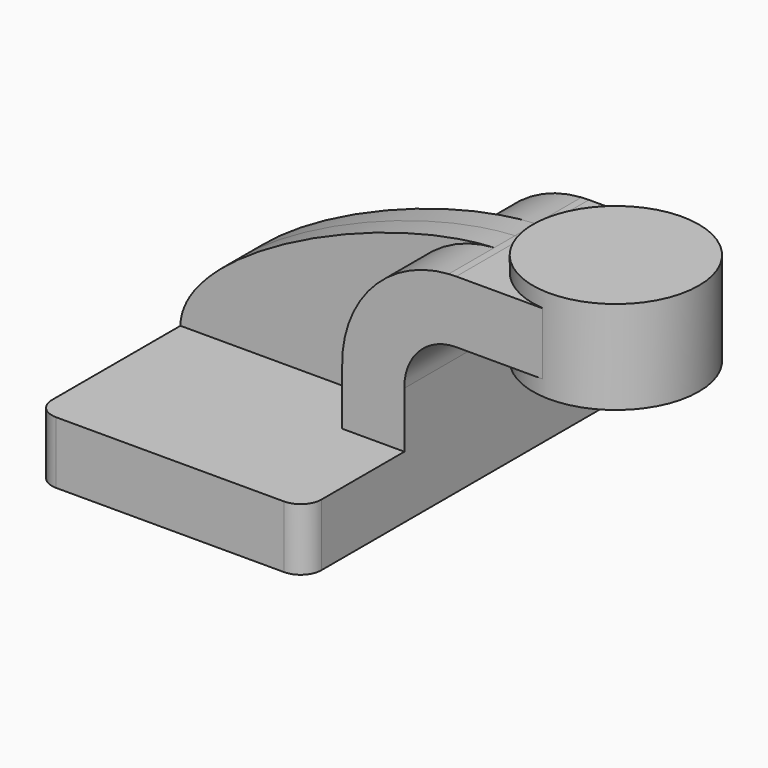
from build123d import *

# Parameters (mm, degrees)
F1_DEPTH = 63.5
F0_W     = 23.213864
F0_H     = 19.05
F2_DEPTH = 25.4
F3_DEPTH = 7.9375
F0_W_2   = 25.4
F0_H_2   = 28.575
F5_R     = 6.35


with BuildPart() as f1:
    # F0 (on Front) → F1 (new body, symmetric)
    with BuildSketch(Plane.XZ):
        Polygon((-41.275, -9.525), (41.275, -9.525), (41.275, 9.525), (22.225, 9.525), (-41.275, 9.525), align=None)
    extrude(amount=F1_DEPTH, both=True)

    # F0 (on Front) → F2 (join, symmetric)
    with BuildSketch(Plane.XZ):
        with BuildLine():
            Line((22.225, 9.525), (41.275, 9.525))
            Line((41.275, 9.525), (41.275, 26.632201))
            ThreePointArc((41.275, 26.632201), (45.791052, 38.09465), (57.145734, 42.8752))
            Line((57.145734, 42.8752), (60.325, 42.8752))
            Line((60.325, 42.8752), (60.325, 61.9252))
            Line((60.325, 61.9252), (57.145734, 61.9252))
            add(Edge.make_bspline(
                [(54.854475, 61.84996), (55.629553, 61.887449), (56.393583, 61.912637), (57.145734, 61.9252)],
                knots=[109.150564, 109.150564, 109.150564, 109.150564, 111.500771, 111.500771, 111.500771, 111.500771], degree=3))
            ThreePointArc((54.854475, 61.84996), (31.467038, 50.672129), (22.225, 26.454349))
            Line((22.225, 26.454349), (22.225, 9.525))
        make_face()
        with Locations((71.931932, 52.4002)):
            Rectangle(F0_W, F0_H)
    extrude(amount=F2_DEPTH, both=True)

    # F0 (on Front) → F3 (join, symmetric)
    with BuildSketch(Plane.XZ):
        with BuildLine():
            add(Edge.make_bspline(
                [(-41.275, 9.525), (-40.968024, 31.835338), (18.857574, 60.108855), (54.854475, 61.84996)],
                knots=[0, 0, 0, 0, 109.150564, 109.150564, 109.150564, 109.150564], degree=3))
            Line((-41.275, 9.525), (22.225, 9.525))
            Line((22.225, 9.525), (22.225, 26.454349))
            ThreePointArc((22.225, 26.454349), (31.467038, 50.672129), (54.854475, 61.84996))
        make_face()
    extrude(amount=F3_DEPTH, both=True)

    # F0 (on Front) → F4 (revolve)
    with BuildSketch(Plane.XZ):
        with Locations((98.425, 52.3875)):
            Rectangle(F0_W_2, F0_H_2)
    revolve(axis=Axis((85.725, 0, 52.3875), (0, 0, 1)))

    # F5
    f5_edges = [f1.edges().sort_by_distance(p)[0] for p in [
        (-41.275, -63.5, 0),
        (41.275, -63.5, 0),
        (41.275, 63.5, 0),
        (-41.275, 63.5, 0),
    ]]
    fillet(f5_edges, radius=F5_R)


solid = f1.part
